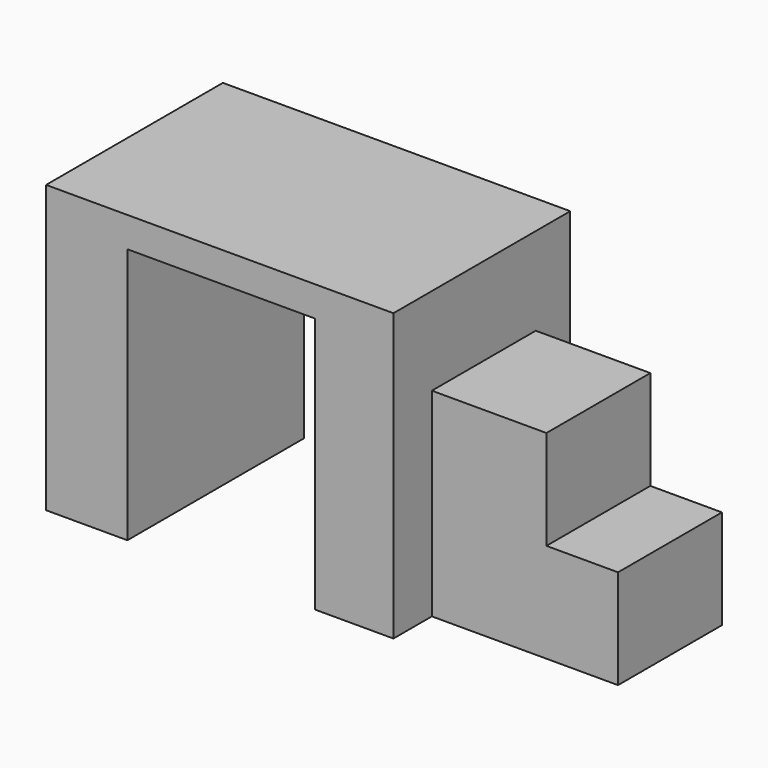
from build123d import *

# Parameters (mm, degrees)
F0_W      = 121.2779134512
F0_H      = 37.155687809
F1_DEPTH  = 100
F2_DEPTH  = 25
F3_DEPTH  = 15
F4_W      = 65.5741617084
F4_H      = 89.4537195563
F5_DEPTH  = 1200
F7_W      = 45.3369794413
F7_H      = 69.372177124
F8_DEPTH  = 40
F9_W      = 45.3369794413
F9_H      = 34.686088562
F10_DEPTH = 25


with BuildPart() as f1:
    # F0 (on Top) → F1 (new body)
    with BuildSketch(Plane.XY):
        with Locations((-60.6389567256, -18.5778439045)):
            Rectangle(F0_W, F0_H)
    extrude(amount=F1_DEPTH)

    # F2 (add): a face of the model
    f2_faces = [f1.faces().sort_by_distance(p)[0] for p in [
        (-60.6389567256, -37.155687809, 50),
    ]]
    extrude(f2_faces, amount=F2_DEPTH)

    # F3 (add): a face of the model
    f3_faces = [f1.faces().sort_by_distance(p)[0] for p in [
        (-60.6389567256, -62.155687809, 50),
    ]]
    extrude(f3_faces, amount=F3_DEPTH)

    # F4 (on face) → F5 (cut)
    with BuildSketch(Plane.XZ.offset(77.155687809)):
        with Locations((-60.1045750082, 44.7268597782)):
            Rectangle(F4_W, F4_H)
    extrude(amount=-F5_DEPTH, mode=Mode.SUBTRACT)

    # F7 (on face) → F8 (join)
    with BuildSketch(Plane.YZ):
        with Locations((-37.7225787379, 34.686088562)):
            Rectangle(F7_W, F7_H)
    extrude(amount=F8_DEPTH)

    # F9 (on face) → F10 (join)
    with BuildSketch(Plane.YZ.offset(40)):
        with Locations((-37.7225787379, 17.343044281)):
            Rectangle(F9_W, F9_H)
    extrude(amount=F10_DEPTH)


solid = f1.part
